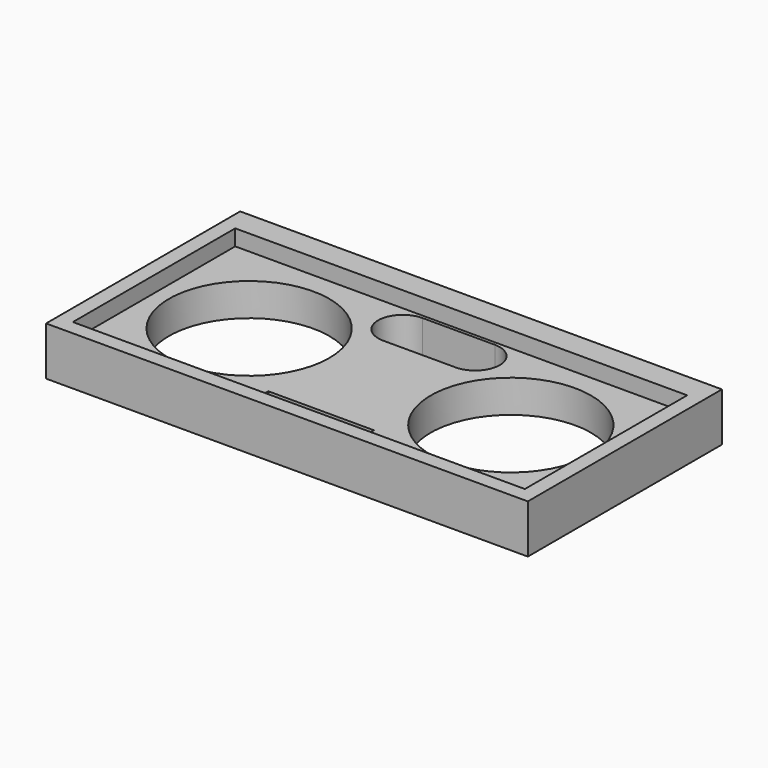
from build123d import *

# Parameters (mm, degrees)
SKETCH_W        = 48.55
SKETCH_H        = 24.45
PAD_DEPTH       = 4.9
SKETCH001_W     = 45.55
SKETCH001_H     = 20.45
POCKET_DEPTH    = 1.6
SKETCH002_R     = 8.08
POCKET001_DEPTH = 3.3
SKETCH003_W     = 10.65
SKETCH003_H     = 2.8
POCKET002_DEPTH = 1.6


with BuildPart() as part:
    # Sketch → Pad (new body)
    with BuildSketch(Plane.XY):
        with Locations((24.275, 12.225)):
            Rectangle(SKETCH_W, SKETCH_H)
    extrude(amount=PAD_DEPTH)

    # Sketch001 → Pocket (cut)
    with BuildSketch(Plane.XY.offset(4.9)):
        with Locations((24.275, 11.725)):
            Rectangle(SKETCH001_W, SKETCH001_H)
    extrude(amount=-POCKET_DEPTH, mode=Mode.SUBTRACT)

    # Sketch002 → Pocket001 (cut)
    with BuildSketch(Plane.XY.offset(3.3)):
        with Locations((11.0875, 11.7175)):
            Circle(SKETCH002_R)
        with Locations((37.4625, 11.7175)):
            Circle(SKETCH002_R)
        with BuildLine():
            Line((20.624978, 21.62), (27.924978, 21.62))
            ThreePointArc((27.925, 16.68), (30.394994, 19.150011), (27.924978, 21.62))
            Line((20.625, 16.68), (27.925, 16.68))
            ThreePointArc((20.624978, 21.62), (18.154979, 19.149989), (20.625, 16.68))
        make_face()
    extrude(amount=-POCKET001_DEPTH, mode=Mode.SUBTRACT)

    # Sketch003 → Pocket002 (cut)
    with BuildSketch(Plane.XY.offset(3.3)):
        with Locations((24.275, 2.9)):
            Rectangle(SKETCH003_W, SKETCH003_H)
    extrude(amount=-POCKET002_DEPTH, mode=Mode.SUBTRACT)


solid = part.part
